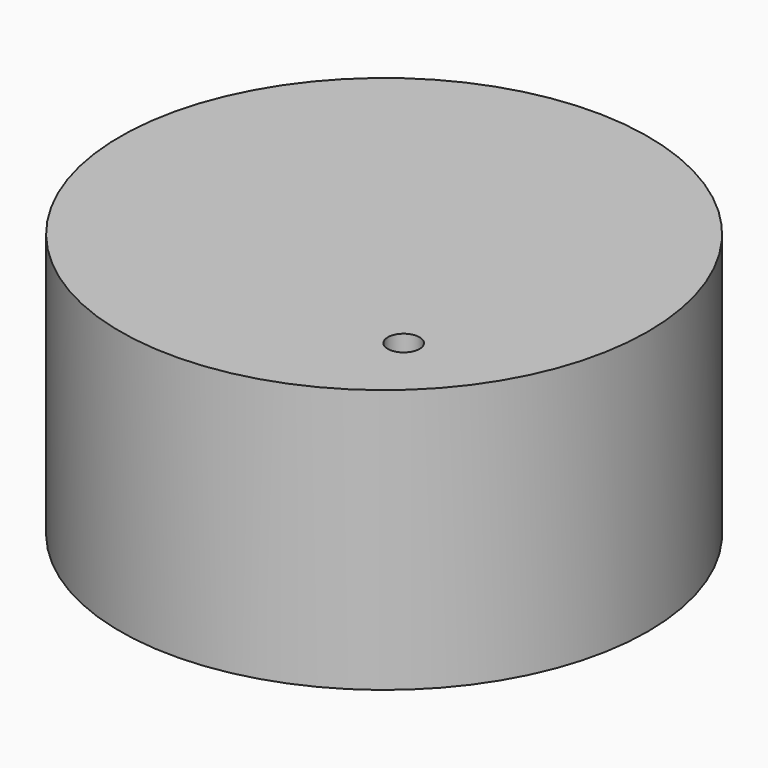
from build123d import *

# Parameters (mm, degrees)
F0_R     = 50
F1_DEPTH = 25
F3_DEPTH = 25
F4_R     = 50
F4_R_2   = 3.0077087993
F5_DEPTH = 25


with BuildPart() as f1:
    # F0 (on Top) → F1 (new body)
    with BuildSketch(Plane.XY):
        Circle(F0_R)
    extrude(amount=F1_DEPTH)

    # F2 (on face) → F3 (join)
    with BuildSketch(Plane.XY.offset(25)):
        Polygon((-0.9346593793, 23.0941153177), (-20.4674202327, 10.7376188925), (-19.5327608534, -12.3564964252), (0.9346593793, -23.0941153177), (20.4674202327, -10.7376188925), (19.5327608534, 12.3564964252), align=None)
    extrude(amount=F3_DEPTH)

    # F4 (on face) → F5 (join)
    with BuildSketch(Plane.XY.offset(25)):
        Circle(F4_R)
        with Locations((24.0734647959, -25.4608131945)):
            Circle(F4_R_2, mode=Mode.SUBTRACT)
        Polygon((-0.9346593793, 23.0941153177), (19.5327608534, 12.3564964252), (20.4674202327, -10.7376188925), (0.9346593793, -23.0941153177), (-19.5327608534, -12.3564964252), (-20.4674202327, 10.7376188925), align=None, mode=Mode.SUBTRACT)
    extrude(amount=F5_DEPTH)


solid = f1.part
